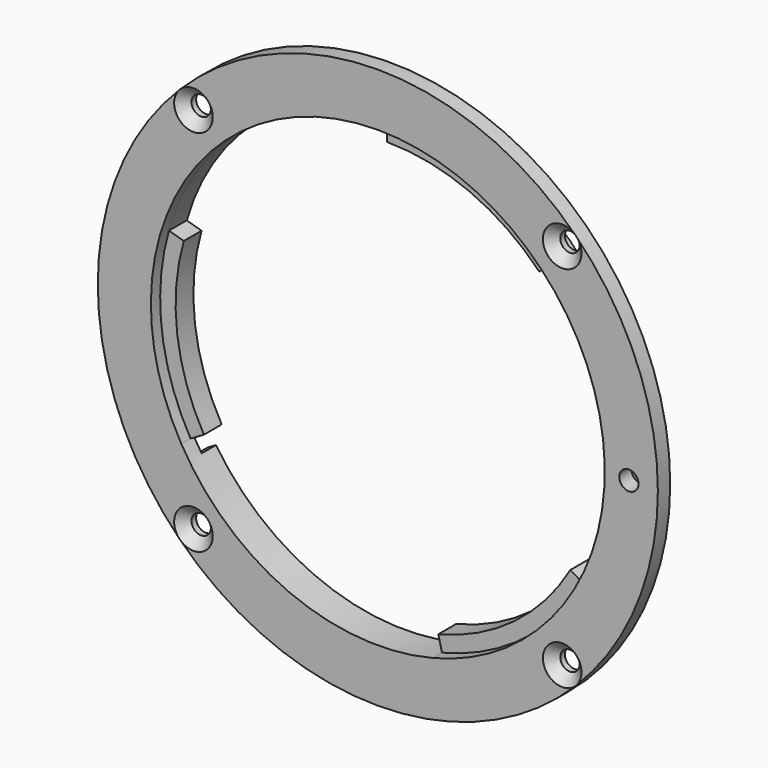
from build123d import *

# Parameters (mm, degrees)
F0_R            = 29
F0_R_2          = 21.9
F1_DEPTH        = 3.5
F2_R            = 23.5
F3_DEPTH        = 1.2
F5_DEPTH        = 3.501
F6_R            = 30.5
F6_R_2          = 24.5
F7_DEPTH        = 1.9
F8_W            = 1.5
F8_H            = 25
F9_DEPTH        = 1.85
F11_D           = 2
F13_D           = 2
F13_DEPTH       = 10
F13_CSINK_D     = 4
F13_CSINK_ANGLE = 90


with BuildPart() as f1:
    # F0 (on Front) → F1 (new body)
    with BuildSketch(Plane.XZ):
        Circle(F0_R)
        Circle(F0_R_2, mode=Mode.SUBTRACT)
    extrude(amount=F1_DEPTH)

    # F2 (on face) → F3 (cut)
    with BuildSketch(Plane.XZ.offset(3.5)):
        Circle(F2_R)
    extrude(amount=-F3_DEPTH, mode=Mode.SUBTRACT)

    # F4 (on face) → F5 (cut, through all)
    with BuildSketch(Plane.XZ.offset(3.5)):
        with BuildLine():
            Line((0, 21.9), (0, 23.5))
            ThreePointArc((0, 23.5), (-14.142653, 18.767934), (-22.58965, 6.477478))
            Line((-22.58965, 6.477478), (-21.051631, 6.036458))
            ThreePointArc((-21.051631, 6.036458), (-21.736761, -2.668939), (-18.965956, -10.95))
            Line((-18.965956, -10.95), (-20.351597, -11.75))
            ThreePointArc((-20.351597, -11.75), (-9.182182, -21.631864), (5.685165, -22.80195))
            Line((5.685165, -22.80195), (5.29809, -21.249476))
            ThreePointArc((5.29809, -21.249476), (13.179749, -17.490118), (18.965956, -10.95))
            Line((18.965956, -10.95), (20.351597, -11.75))
            ThreePointArc((20.351597, -11.75), (23.324835, 2.86393), (16.904485, 16.324472))
            Line((16.904485, 16.324472), (15.753542, 15.213018))
            ThreePointArc((15.753542, 15.213018), (8.557012, 20.159056), (0, 21.9))
        make_face()
    extrude(amount=-F5_DEPTH, mode=Mode.SUBTRACT)

    # F6 (on face) → F7 (cut)
    with BuildSketch(Plane(origin=(0, 0, 0), x_dir=(-1, 0, 0), z_dir=(0, 1, 0))):
        Circle(F6_R)
        Circle(F6_R_2, mode=Mode.SUBTRACT)
    extrude(amount=-F7_DEPTH, mode=Mode.SUBTRACT)

    # F8 (on face) → F9 (cut)
    with BuildSketch(Plane(origin=(0, 0, 0), x_dir=(-1, 0, 0), z_dir=(0, 1, 0))):
        Polygon((21.650635, -12.5), (0, 0), (-0.75, -1.299038), (20.900635, -13.799038), align=None)
        with Locations((0.75, 12.5)):
            Rectangle(F8_W, F8_H)
        Polygon((-21.650635, -12.5), (0, 0), (-0.75, 1.299038), (-22.400635, -11.200962), align=None)
    extrude(amount=-F9_DEPTH, mode=Mode.SUBTRACT)

    # F11 (through all)
    with Locations(Plane.XZ.offset(3.5)):
        with Locations((26, 0)):
            Hole(F11_D / 2)

    # F13
    with Locations(Plane.XZ.offset(3.5)):
        with Locations((-19.091883, 19.091883), (19.091883, 19.091883), (19.091883, -19.091883), (-19.091883, -19.091883)):
            CounterSinkHole(F13_D / 2, F13_CSINK_D / 2, depth=F13_DEPTH, counter_sink_angle=F13_CSINK_ANGLE)


solid = f1.part
